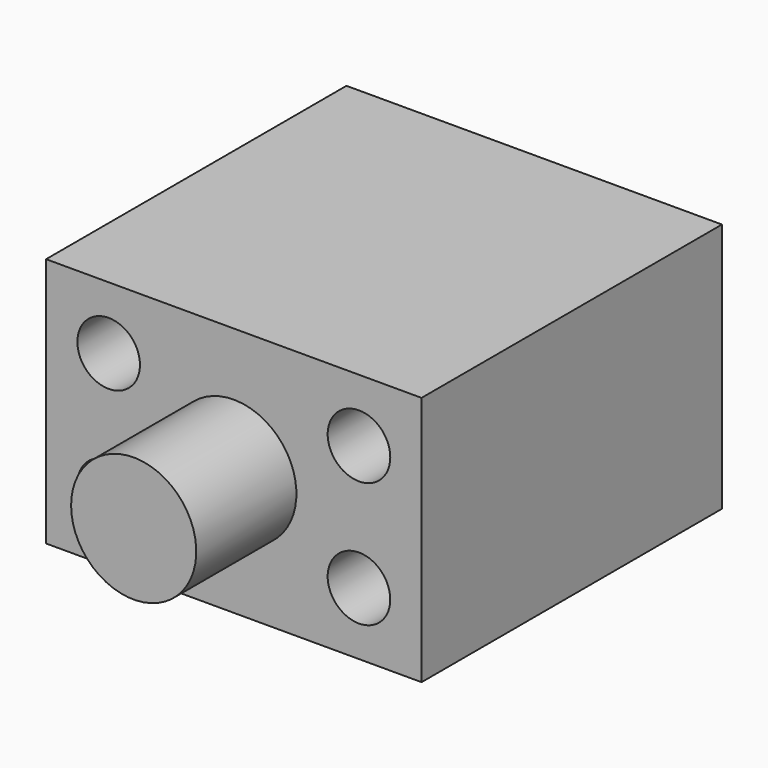
from build123d import *

# Parameters (mm, degrees)
F0_W     = 76.2
F0_H     = 50.8
F1_DEPTH = 76.2
F2_R     = 6.35
F3_DEPTH = 76.201
F4_W     = 12.7
F4_H     = 25.4


with BuildPart() as f1:
    # F0 (on Front) → F1 (new body)
    with BuildSketch(Plane.XZ):
        Rectangle(F0_W, F0_H)
    extrude(amount=F1_DEPTH)

    # F2 (on face) → F3 (cut, through all)
    with BuildSketch(Plane.XZ.offset(76.2)):
        with Locations((-25.4, 12.7)):
            Circle(F2_R)
        with Locations((-25.4, -12.7)):
            Circle(F2_R)
        with Locations((25.4, 12.7)):
            Circle(F2_R)
        with Locations((25.4, -12.7)):
            Circle(F2_R)
    extrude(amount=-F3_DEPTH, mode=Mode.SUBTRACT)

    # F4 (on Top) → F5 (revolve)
    with BuildSketch(Plane.XY):
        with Locations((-6.35, -88.9)):
            Rectangle(F4_W, F4_H)
    revolve(axis=Axis((0, -88.9, 0), (0, -1, 0)))


solid = f1.part
